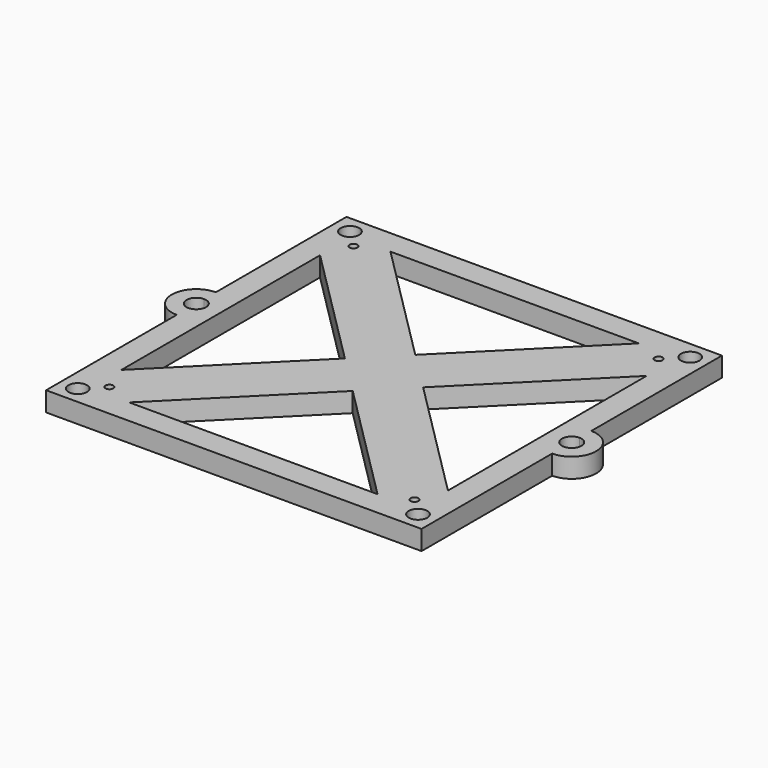
from build123d import *

# Parameters (mm, degrees)
F0_R     = 9.5
F0_R_2   = 4
F0_W     = 254
F0_H     = 25
F1_DEPTH = 20


with BuildPart() as f1:
    # F0 (on Top) → F1 (new body)
    with BuildSketch(Plane.XY):
        Polygon((-192, 127), (-167, 127), (-127, 167), (-127, 192), (-192, 192), align=None)
        with Locations((-174, 174)):
            Circle(F0_R, mode=Mode.SUBTRACT)
        with Locations((-156, 156)):
            Circle(F0_R_2, mode=Mode.SUBTRACT)
        with BuildLine():
            Line((-167, -127), (-167, 127))
            Line((-167, 127), (-192, 127))
            Line((-192, 127), (-192, 25))
            Line((-192, 25), (-192, 10))
            ThreePointArc((-192, 10), (-184.9289321881, 7.0710678119), (-182, 0))
            ThreePointArc((-182, 0), (-184.9289321881, -7.0710678119), (-192, -10))
            Line((-192, -10), (-192, -25))
            Line((-192, -25), (-192, -127))
            Line((-192, -127), (-167, -127))
        make_face()
        with Locations((0, 179.5)):
            Rectangle(F0_W, F0_H)
        Polygon((-127, -167), (-167, -127), (-192, -127), (-192, -192), (-127, -192), align=None)
        with Locations((-174, -174)):
            Circle(F0_R, mode=Mode.SUBTRACT)
        with Locations((-156, -156)):
            Circle(F0_R_2, mode=Mode.SUBTRACT)
        Polygon((127, 192), (127, 167), (167, 127), (192, 127), (192, 192), align=None)
        with Locations((156, 156)):
            Circle(F0_R_2, mode=Mode.SUBTRACT)
        with Locations((174, 174)):
            Circle(F0_R, mode=Mode.SUBTRACT)
        with BuildLine():
            Line((-192, 10), (-192, 25))
            ThreePointArc((-192, 25), (-217, 0), (-192, -25))
            Line((-192, -25), (-192, -10))
            ThreePointArc((-192, -10), (-202, 0), (-192, 10))
        make_face()
        with Locations((0, -179.5)):
            Rectangle(F0_W, F0_H)
        with BuildLine():
            Line((192, 127), (167, 127))
            Line((167, 127), (167, -127))
            Line((167, -127), (192, -127))
            Line((192, -127), (192, -25))
            Line((192, -25), (192, -10))
            ThreePointArc((192, -10), (182, 0), (192, 10))
            Line((192, 10), (192, 25))
            Line((192, 25), (192, 127))
        make_face()
        Polygon((167, -127), (127, -167), (127, -192), (192, -192), (192, -127), align=None)
        with Locations((156, -156)):
            Circle(F0_R_2, mode=Mode.SUBTRACT)
        with Locations((174, -174)):
            Circle(F0_R, mode=Mode.SUBTRACT)
        with BuildLine():
            ThreePointArc((192, -25), (217, 0), (192, 25))
            Line((192, 25), (192, 10))
            ThreePointArc((192, 10), (199.0710678119, 7.0710678119), (202, 0))
            ThreePointArc((202, 0), (199.0710678119, -7.0710678119), (192, -10))
            Line((192, -10), (192, -25))
        make_face()
        Polygon((40, 0), (0, -40), (127, -167), (167, -127), align=None)
        Polygon((-40, 0), (-167, -127), (-127, -167), (0, -40), align=None)
        Polygon((-127, 167), (-167, 127), (-40, 0), (0, 40), align=None)
        Polygon((0, 40), (-40, 0), (0, -40), (40, 0), align=None)
        Polygon((167, 127), (127, 167), (0, 40), (40, 0), align=None)
    extrude(amount=F1_DEPTH)


solid = f1.part
